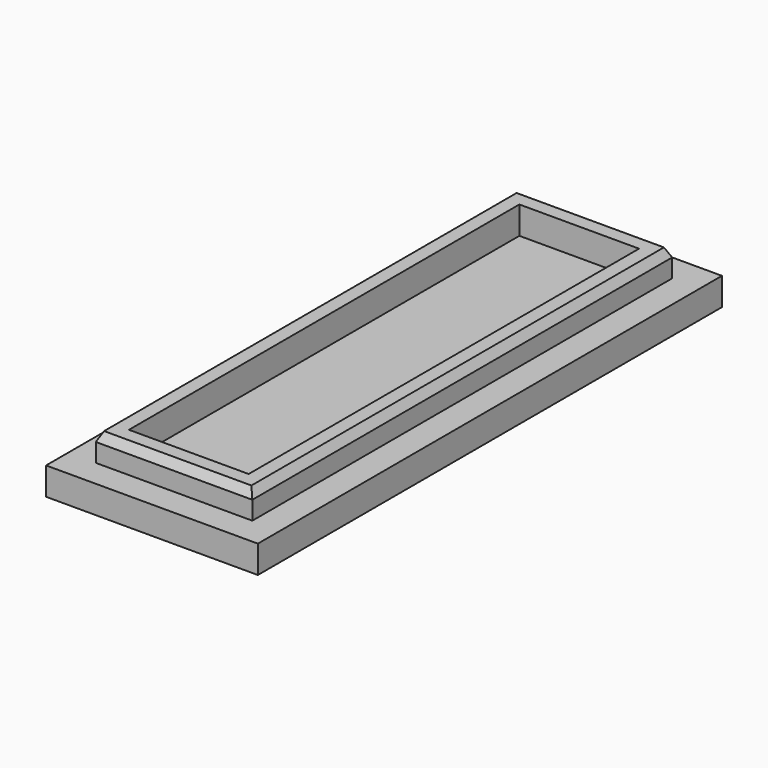
from build123d import *

# Parameters (mm, degrees)
F0_W     = 23
F0_H     = 63
F1_DEPTH = 3
F2_W     = 17
F2_H     = 57
F2_W_2   = 13
F2_H_2   = 53
F3_DEPTH = 6
F4_SIZE2 = 0.5
F4_SIZE  = 1


with BuildPart() as f1:
    # F0 (on Top) → F1 (new body)
    with BuildSketch(Plane.XY):
        with Locations((11.5, 31.5)):
            Rectangle(F0_W, F0_H)
    extrude(amount=F1_DEPTH)

    # F2 (on face) → F3 (join)
    with BuildSketch(Plane(origin=(0, 0, 0), x_dir=(1, 0, 0), z_dir=(0, 0, -1))):
        with Locations((11.5, -31.5)):
            Rectangle(F2_W, F2_H)
        with Locations((11.5, -31.5)):
            Rectangle(F2_W_2, F2_H_2, mode=Mode.SUBTRACT)
    extrude(amount=-F3_DEPTH)

    # F4
    f4_edges = [f1.edges().sort_by_distance(p)[0] for p in [
        (11.5, 3, 6),
        (20, 31.5, 6),
        (3, 31.5, 6),
        (11.5, 60, 6),
    ]]
    chamfer(f4_edges, length=F4_SIZE, length2=F4_SIZE2)


solid = f1.part
